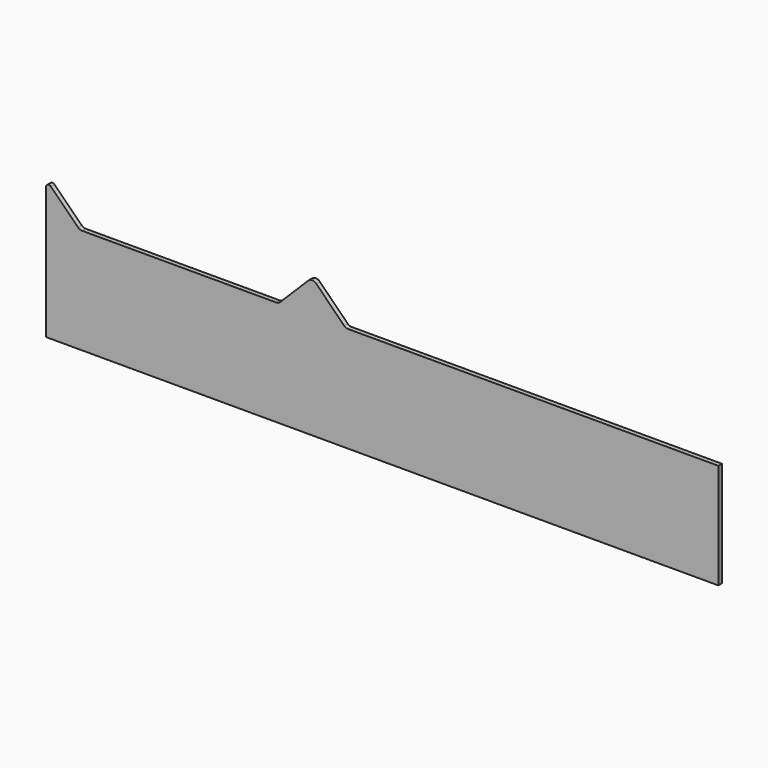
from build123d import *

# Parameters (mm, degrees)
F0_W     = 50
F0_H     = 80
F1_DEPTH = 4


with BuildPart() as f1:
    # F0 (on Front) → F1 (new body)
    with BuildSketch(Plane.XZ):
        with BuildLine():
            Line((-220, 18), (-220, -62))
            Line((-220, -62), (280, -62))
            Line((280, -62), (280, 18))
            Line((280, 18), (330, 18))
            Line((330, 18), (330, 32))
            Line((330, 32), (285, 32))
            Line((285, 32), (265, 32))
            Line((265, 32), (-0.428932, 32))
            ThreePointArc((-0.428932, 32), (-2.342349, 32.380602), (-3.964466, 33.464466))
            Line((-3.964466, 33.464466), (-28.964466, 58.464466))
            ThreePointArc((-28.964466, 58.464466), (-32.5, 59.928932), (-36.035534, 58.464466))
            Line((-36.035534, 58.464466), (-61.035534, 33.464466))
            ThreePointArc((-61.035534, 33.464466), (-62.657651, 32.380602), (-64.571068, 32))
            Line((-64.571068, 32), (-237.928932, 32))
            ThreePointArc((-237.928932, 32), (-239.842349, 32.380602), (-241.464466, 33.464466))
            Line((-241.464466, 33.464466), (-265.732233, 57.732233))
            ThreePointArc((-265.732233, 57.732233), (-268.456709, 58.274165), (-270, 55.964466))
            Line((-270, 55.964466), (-270, 18))
            Line((-270, 18), (-220, 18))
        make_face()
        with Locations((-245, -22)):
            Rectangle(F0_W, F0_H)
        Polygon((280, 18), (280, -62), (330, -62), (330, 17), (330, 18), align=None)
        with BuildLine():
            Line((-220, 18), (-220, -62))
            Line((-220, -62), (280, -62))
            Line((280, -62), (280, 18))
            Line((280, 18), (330, 18))
            Line((330, 18), (330, 32))
            Line((330, 32), (285, 32))
            Line((285, 32), (265, 32))
            Line((265, 32), (-0.428932, 32))
            ThreePointArc((-0.428932, 32), (-2.342349, 32.380602), (-3.964466, 33.464466))
            Line((-3.964466, 33.464466), (-28.964466, 58.464466))
            ThreePointArc((-28.964466, 58.464466), (-32.5, 59.928932), (-36.035534, 58.464466))
            Line((-36.035534, 58.464466), (-61.035534, 33.464466))
            ThreePointArc((-61.035534, 33.464466), (-62.657651, 32.380602), (-64.571068, 32))
            Line((-64.571068, 32), (-237.928932, 32))
            ThreePointArc((-237.928932, 32), (-239.842349, 32.380602), (-241.464466, 33.464466))
            Line((-241.464466, 33.464466), (-265.732233, 57.732233))
            ThreePointArc((-265.732233, 57.732233), (-268.456709, 58.274165), (-270, 55.964466))
            Line((-270, 55.964466), (-270, 18))
            Line((-270, 18), (-220, 18))
        make_face()
    extrude(amount=F1_DEPTH)


solid = f1.part
